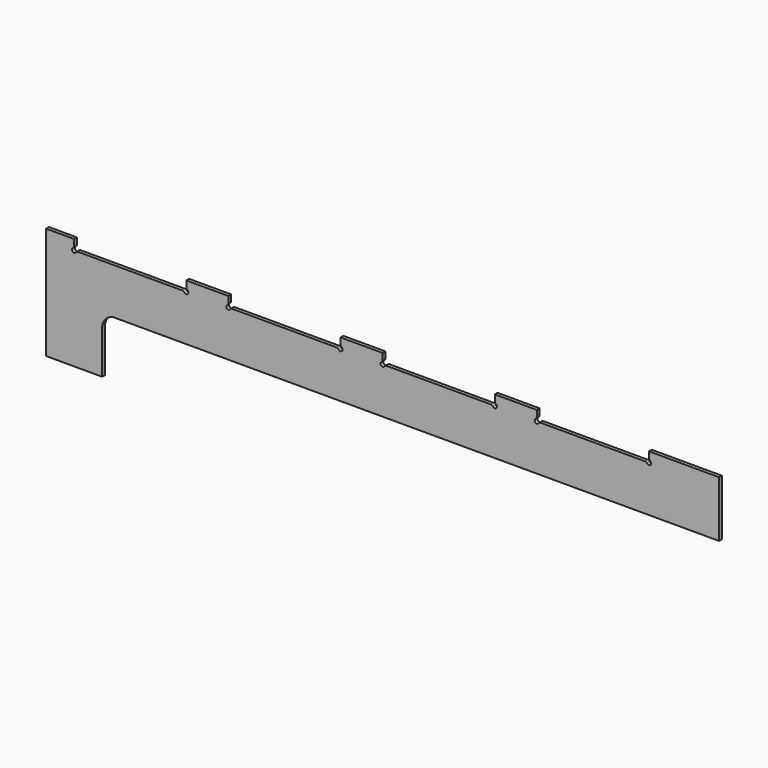
from build123d import *

# Parameters (mm, degrees)
F1_DEPTH = 6.35
F3_DEPTH = 6.351
F4_R     = 5.08
F5_R     = 23.301989


with BuildPart() as f1:
    # F0 (on Front) → F1 (new body)
    with BuildSketch(Plane.XZ):
        Polygon((0, 203.2), (0, 0), (101.6, 0), (101.6, 101.6), (1219.2, 101.6), (1219.2, 203.2), align=None)
    extrude(amount=F1_DEPTH)

    # F2 (on face) → F3 (cut, through all)
    with BuildSketch(Plane.XZ.offset(6.35)):
        with BuildLine():
            Line((254, 184.9882), (250.19, 184.9882))
            ThreePointArc((250.19, 184.9882), (256.694077, 182.294123), (254, 188.7982))
            Line((254, 188.7982), (254, 184.9882))
        make_face()
        with BuildLine():
            Line((50.8, 184.9882), (50.8, 188.7982))
            ThreePointArc((50.8, 188.7982), (48.105923, 182.294123), (54.61, 184.9882))
            Line((54.61, 184.9882), (50.8, 184.9882))
        make_face()
        with BuildLine():
            Line((533.4, 184.9882), (529.59, 184.9882))
            ThreePointArc((529.59, 184.9882), (536.094077, 182.294123), (533.4, 188.7982))
            Line((533.4, 188.7982), (533.4, 184.9882))
        make_face()
        with BuildLine():
            Line((330.2, 184.9882), (330.2, 188.7982))
            ThreePointArc((330.2, 188.7982), (327.505923, 182.294123), (334.01, 184.9882))
            Line((334.01, 184.9882), (330.2, 184.9882))
        make_face()
        with BuildLine():
            Line((812.8, 184.9882), (808.99, 184.9882))
            ThreePointArc((808.99, 184.9882), (815.494077, 182.294123), (812.8, 188.7982))
            Line((812.8, 188.7982), (812.8, 184.9882))
        make_face()
        with BuildLine():
            Line((609.6, 184.9882), (609.6, 188.7982))
            ThreePointArc((609.6, 188.7982), (606.905923, 182.294123), (613.41, 184.9882))
            Line((613.41, 184.9882), (609.6, 184.9882))
        make_face()
        with BuildLine():
            Line((1092.2, 184.9882), (1088.39, 184.9882))
            ThreePointArc((1088.39, 184.9882), (1094.894077, 182.294123), (1092.2, 188.7982))
            Line((1092.2, 188.7982), (1092.2, 184.9882))
        make_face()
        with BuildLine():
            Line((889, 184.9882), (889, 188.7982))
            ThreePointArc((889, 188.7982), (886.305923, 182.294123), (892.81, 184.9882))
            Line((892.81, 184.9882), (889, 184.9882))
        make_face()
        Polygon((254, 203.2), (50.8, 203.2), (50.8, 188.7982), (50.8, 184.9882), (54.61, 184.9882), (152.4, 184.9882), (250.19, 184.9882), (254, 184.9882), (254, 188.7982), align=None)
        Polygon((533.4, 203.2), (330.2, 203.2), (330.2, 188.7982), (330.2, 184.9882), (334.01, 184.9882), (431.8, 184.9882), (529.59, 184.9882), (533.4, 184.9882), (533.4, 188.7982), align=None)
        Polygon((812.8, 203.2), (609.6, 203.2), (609.6, 188.7982), (609.6, 184.9882), (613.41, 184.9882), (711.2, 184.9882), (808.99, 184.9882), (812.8, 184.9882), (812.8, 188.7982), align=None)
        Polygon((1092.2, 203.2), (889, 203.2), (889, 188.7982), (889, 184.9882), (892.81, 184.9882), (990.6, 184.9882), (1088.39, 184.9882), (1092.2, 184.9882), (1092.2, 188.7982), align=None)
    extrude(amount=-F3_DEPTH, mode=Mode.SUBTRACT)

    # F4
    f4_edges = [f1.edges().sort_by_distance(p)[0] for p in [
        (334.01, -3.175, 184.9882),
        (330.2, -3.175, 188.7982),
        (529.59, -3.175, 184.9882),
        (533.4, -3.175, 188.7982),
        (54.61, -3.175, 184.9882),
        (50.8, -3.175, 188.7982),
        (250.19, -3.175, 184.9882),
        (254, -3.175, 188.7982),
        (1092.2, -3.175, 188.7982),
        (1088.39, -3.175, 184.9882),
        (812.8, -3.175, 188.7982),
        (808.99, -3.175, 184.9882),
        (609.6, -3.175, 188.7982),
        (613.41, -3.175, 184.9882),
        (889, -3.175, 188.7982),
        (892.81, -3.175, 184.9882),
    ]]
    fillet(f4_edges, radius=F4_R)

    # F5
    f5_edges = [f1.edges().sort_by_distance(p)[0] for p in [
        (101.6, -3.175, 101.6),
    ]]
    fillet(f5_edges, radius=F5_R)


solid = f1.part
